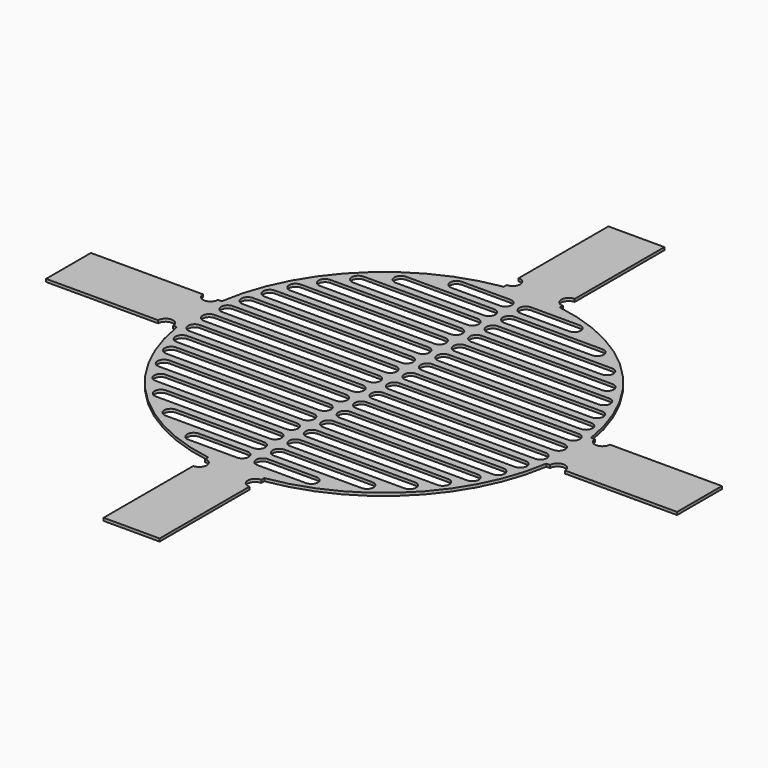
from build123d import *

# Parameters (mm, degrees)
F0_R          = 100
F1_DEPTH      = 1.5
F2_W          = 70
F2_H          = 30
F2_W_2        = 30
F2_H_2        = 70
F3_DEPTH      = 1.5
F5_DEPTH      = 25
F5_DEPTH_BACK = 25
F6_R          = 4
F7_DEPTH      = 25
F7_DEPTH_BACK = 25


with BuildPart() as f1:
    # F0 (on Top) → F1 (new body)
    with BuildSketch(Plane.XY):
        Circle(F0_R)
    extrude(amount=-F1_DEPTH)

    # F2 (on face) → F3 (join)
    with BuildSketch(Plane.XY):
        with Locations((-133.8686, 0)):
            Rectangle(F2_W, F2_H)
        with Locations((133.8686, 0)):
            Rectangle(F2_W, F2_H)
        with Locations((0, 133.8686)):
            Rectangle(F2_W_2, F2_H_2)
        with Locations((0, -133.8686)):
            Rectangle(F2_W_2, F2_H_2)
    extrude(amount=-F3_DEPTH)

    # F4 (on face) → F5 (cut, two sides)
    with BuildSketch(Plane.XY) as f5_sk:
        with BuildLine():
            ThreePointArc((-5.5, -3.5), (-2, 0), (-5.5, 3.5))
            Line((-5.5, 3.5), (-93.5, 3.5))
            ThreePointArc((-93.5, 3.5), (-97, 0), (-93.5, -3.5))
            Line((-93.5, -3.5), (-5.5, -3.5))
        make_face()
        with BuildLine():
            ThreePointArc((-5.5, 7.5), (-2, 11), (-5.5, 14.5))
            Line((-5.5, 14.5), (-92.5, 14.5))
            ThreePointArc((-92.5, 14.5), (-96, 11), (-92.5, 7.5))
            Line((-92.5, 7.5), (-5.5, 7.5))
        make_face()
        with BuildLine():
            ThreePointArc((-5.5, 18.5), (-2, 22), (-5.5, 25.5))
            Line((-5.5, 25.5), (-90.5, 25.5))
            ThreePointArc((-90.5, 25.5), (-94, 22), (-90.5, 18.5))
            Line((-90.5, 18.5), (-5.5, 18.5))
        make_face()
        with BuildLine():
            ThreePointArc((-5.5, 40.5), (-2, 44), (-5.5, 47.5))
            Line((-5.5, 47.5), (-82.5, 47.5))
            ThreePointArc((-82.5, 47.5), (-86, 44), (-82.5, 40.5))
            Line((-82.5, 40.5), (-5.5, 40.5))
        make_face()
        with BuildLine():
            ThreePointArc((-5.5, 29.5), (-2, 33), (-5.5, 36.5))
            Line((-5.5, 36.5), (-87.5, 36.5))
            ThreePointArc((-87.5, 36.5), (-91, 33), (-87.5, 29.5))
            Line((-87.5, 29.5), (-5.5, 29.5))
        make_face()
        with BuildLine():
            ThreePointArc((-5.5, 51.5), (-2, 55), (-5.5, 58.5))
            Line((-5.5, 58.5), (-75.5, 58.5))
            ThreePointArc((-75.5, 58.5), (-79, 55), (-75.5, 51.5))
            Line((-75.5, 51.5), (-5.5, 51.5))
        make_face()
        with BuildLine():
            ThreePointArc((-5.5, 62.5), (-2, 66), (-5.5, 69.5))
            Line((-5.5, 69.5), (-66.5, 69.5))
            ThreePointArc((-66.5, 69.5), (-70, 66), (-66.5, 62.5))
            Line((-66.5, 62.5), (-5.5, 62.5))
        make_face()
        with BuildLine():
            ThreePointArc((-5.5, 73.5), (-2, 77), (-5.5, 80.5))
            Line((-5.5, 80.5), (-52.5, 80.5))
            ThreePointArc((-52.5, 80.5), (-56, 77), (-52.5, 73.5))
            Line((-52.5, 73.5), (-5.5, 73.5))
        make_face()
        with BuildLine():
            ThreePointArc((-5.5, 84.5), (-2, 88), (-5.5, 91.5))
            Line((-5.5, 91.5), (-31.5, 91.5))
            ThreePointArc((-31.5, 91.5), (-35, 88), (-31.5, 84.5))
            Line((-31.5, 84.5), (-5.5, 84.5))
        make_face()
        with BuildLine():
            ThreePointArc((-5.5, -14.5), (-2, -11), (-5.5, -7.5))
            Line((-5.5, -7.5), (-92.5, -7.5))
            ThreePointArc((-92.5, -7.5), (-96, -11), (-92.5, -14.5))
            Line((-92.5, -14.5), (-5.5, -14.5))
        make_face()
        with BuildLine():
            Line((-5.5, -18.5), (-90.5, -18.5))
            ThreePointArc((-90.5, -18.5), (-94, -22), (-90.5, -25.5))
            Line((-90.5, -25.5), (-5.5, -25.5))
            ThreePointArc((-5.5, -25.5), (-2, -22), (-5.5, -18.5))
        make_face()
        with BuildLine():
            Line((-5.5, -51.5), (-75.5, -51.5))
            ThreePointArc((-75.5, -51.5), (-79, -55), (-75.5, -58.5))
            Line((-75.5, -58.5), (-5.5, -58.5))
            ThreePointArc((-5.5, -58.5), (-2, -55), (-5.5, -51.5))
        make_face()
        with BuildLine():
            Line((-5.5, -29.5), (-87.5, -29.5))
            ThreePointArc((-87.5, -29.5), (-91, -33), (-87.5, -36.5))
            Line((-87.5, -36.5), (-5.5, -36.5))
            ThreePointArc((-5.5, -36.5), (-2, -33), (-5.5, -29.5))
        make_face()
        with BuildLine():
            Line((-5.5, -84.5), (-31.5, -84.5))
            ThreePointArc((-31.5, -84.5), (-35, -88), (-31.5, -91.5))
            Line((-31.5, -91.5), (-5.5, -91.5))
            ThreePointArc((-5.5, -91.5), (-2, -88), (-5.5, -84.5))
        make_face()
        with BuildLine():
            Line((-66.5, -69.5), (-5.5, -69.5))
            ThreePointArc((-5.5, -69.5), (-2, -66), (-5.5, -62.5))
            Line((-5.5, -62.5), (-66.5, -62.5))
            ThreePointArc((-66.5, -62.5), (-70, -66), (-66.5, -69.5))
        make_face()
        with BuildLine():
            Line((-5.5, -73.5), (-52.5, -73.5))
            ThreePointArc((-52.5, -73.5), (-56, -77), (-52.5, -80.5))
            Line((-52.5, -80.5), (-5.5, -80.5))
            ThreePointArc((-5.5, -80.5), (-2, -77), (-5.5, -73.5))
        make_face()
        with BuildLine():
            Line((-5.5, -40.5), (-82.5, -40.5))
            ThreePointArc((-82.5, -40.5), (-86, -44), (-82.5, -47.5))
            Line((-82.5, -47.5), (-5.5, -47.5))
            ThreePointArc((-5.5, -47.5), (-2, -44), (-5.5, -40.5))
        make_face()
        with BuildLine():
            ThreePointArc((5.5, 3.5), (2, 0), (5.5, -3.5))
            Line((5.5, -3.5), (93.5, -3.5))
            ThreePointArc((93.5, -3.5), (97, 0), (93.5, 3.5))
            Line((93.5, 3.5), (5.5, 3.5))
        make_face()
        with BuildLine():
            Line((82.5, 47.5), (5.5, 47.5))
            ThreePointArc((5.5, 47.5), (2, 44), (5.5, 40.5))
            Line((5.5, 40.5), (82.5, 40.5))
            ThreePointArc((82.5, 40.5), (86, 44), (82.5, 47.5))
        make_face()
        with BuildLine():
            Line((87.5, 36.5), (5.5, 36.5))
            ThreePointArc((5.5, 36.5), (2, 33), (5.5, 29.5))
            Line((5.5, 29.5), (87.5, 29.5))
            ThreePointArc((87.5, 29.5), (91, 33), (87.5, 36.5))
        make_face()
        with BuildLine():
            Line((75.5, 58.5), (5.5, 58.5))
            ThreePointArc((5.5, 58.5), (2, 55), (5.5, 51.5))
            Line((5.5, 51.5), (75.5, 51.5))
            ThreePointArc((75.5, 51.5), (79, 55), (75.5, 58.5))
        make_face()
        with BuildLine():
            ThreePointArc((5.5, -51.5), (2, -55), (5.5, -58.5))
            Line((5.5, -58.5), (75.5, -58.5))
            ThreePointArc((75.5, -58.5), (79, -55), (75.5, -51.5))
            Line((75.5, -51.5), (5.5, -51.5))
        make_face()
        with BuildLine():
            Line((90.5, 25.5), (5.5, 25.5))
            ThreePointArc((5.5, 25.5), (2, 22), (5.5, 18.5))
            Line((5.5, 18.5), (90.5, 18.5))
            ThreePointArc((90.5, 18.5), (94, 22), (90.5, 25.5))
        make_face()
        with BuildLine():
            Line((92.5, 14.5), (5.5, 14.5))
            ThreePointArc((5.5, 14.5), (2, 11), (5.5, 7.5))
            Line((5.5, 7.5), (92.5, 7.5))
            ThreePointArc((92.5, 7.5), (96, 11), (92.5, 14.5))
        make_face()
        with BuildLine():
            ThreePointArc((5.5, -40.5), (2, -44), (5.5, -47.5))
            Line((5.5, -47.5), (82.5, -47.5))
            ThreePointArc((82.5, -47.5), (86, -44), (82.5, -40.5))
            Line((82.5, -40.5), (5.5, -40.5))
        make_face()
        with BuildLine():
            ThreePointArc((5.5, -62.5), (2, -66), (5.5, -69.5))
            Line((5.5, -69.5), (66.5, -69.5))
            ThreePointArc((66.5, -69.5), (70, -66), (66.5, -62.5))
            Line((66.5, -62.5), (5.5, -62.5))
        make_face()
        with BuildLine():
            ThreePointArc((5.5, -29.5), (2, -33), (5.5, -36.5))
            Line((5.5, -36.5), (87.5, -36.5))
            ThreePointArc((87.5, -36.5), (91, -33), (87.5, -29.5))
            Line((87.5, -29.5), (5.5, -29.5))
        make_face()
        with BuildLine():
            Line((66.5, 69.5), (5.5, 69.5))
            ThreePointArc((5.5, 69.5), (2, 66), (5.5, 62.5))
            Line((5.5, 62.5), (66.5, 62.5))
            ThreePointArc((66.5, 62.5), (70, 66), (66.5, 69.5))
        make_face()
        with BuildLine():
            ThreePointArc((5.5, -7.5), (2, -11), (5.5, -14.5))
            Line((5.5, -14.5), (92.5, -14.5))
            ThreePointArc((92.5, -14.5), (96, -11), (92.5, -7.5))
            Line((92.5, -7.5), (5.5, -7.5))
        make_face()
        with BuildLine():
            ThreePointArc((5.5, -18.5), (2, -22), (5.5, -25.5))
            Line((5.5, -25.5), (90.5, -25.5))
            ThreePointArc((90.5, -25.5), (94, -22), (90.5, -18.5))
            Line((90.5, -18.5), (5.5, -18.5))
        make_face()
        with BuildLine():
            Line((52.5, 80.5), (5.5, 80.5))
            ThreePointArc((5.5, 80.5), (2, 77), (5.5, 73.5))
            Line((5.5, 73.5), (52.5, 73.5))
            ThreePointArc((52.5, 73.5), (56, 77), (52.5, 80.5))
        make_face()
        with BuildLine():
            ThreePointArc((5.5, -73.5), (2, -77), (5.5, -80.5))
            Line((5.5, -80.5), (52.5, -80.5))
            ThreePointArc((52.5, -80.5), (56, -77), (52.5, -73.5))
            Line((52.5, -73.5), (5.5, -73.5))
        make_face()
        with BuildLine():
            Line((31.5, 91.5), (5.5, 91.5))
            ThreePointArc((5.5, 91.5), (2, 88), (5.5, 84.5))
            Line((5.5, 84.5), (31.5, 84.5))
            ThreePointArc((31.5, 84.5), (35, 88), (31.5, 91.5))
        make_face()
        with BuildLine():
            ThreePointArc((5.5, -84.5), (2, -88), (5.5, -91.5))
            Line((5.5, -91.5), (31.5, -91.5))
            ThreePointArc((31.5, -91.5), (35, -88), (31.5, -84.5))
            Line((31.5, -84.5), (5.5, -84.5))
        make_face()
    extrude(amount=-F5_DEPTH, mode=Mode.SUBTRACT)
    extrude(f5_sk.sketch, amount=-F5_DEPTH_BACK, mode=Mode.SUBTRACT)

    # F6 (on face) → F7 (cut, two sides)
    with BuildSketch(Plane.XY) as f7_sk:
        with Locations((15, 104.8686)):
            Circle(F6_R)
        with Locations((-15, 104.8686)):
            Circle(F6_R)
        with Locations((-104.8686, 15)):
            Circle(F6_R)
        with Locations((-104.8686, -15)):
            Circle(F6_R)
        with Locations((-15, -104.8686)):
            Circle(F6_R)
        with Locations((15, -104.8686)):
            Circle(F6_R)
        with Locations((104.8686, -15)):
            Circle(F6_R)
        with Locations((104.8686, 15)):
            Circle(F6_R)
    extrude(amount=F7_DEPTH, mode=Mode.SUBTRACT)
    extrude(f7_sk.sketch, amount=-F7_DEPTH_BACK, mode=Mode.SUBTRACT)


solid = f1.part
